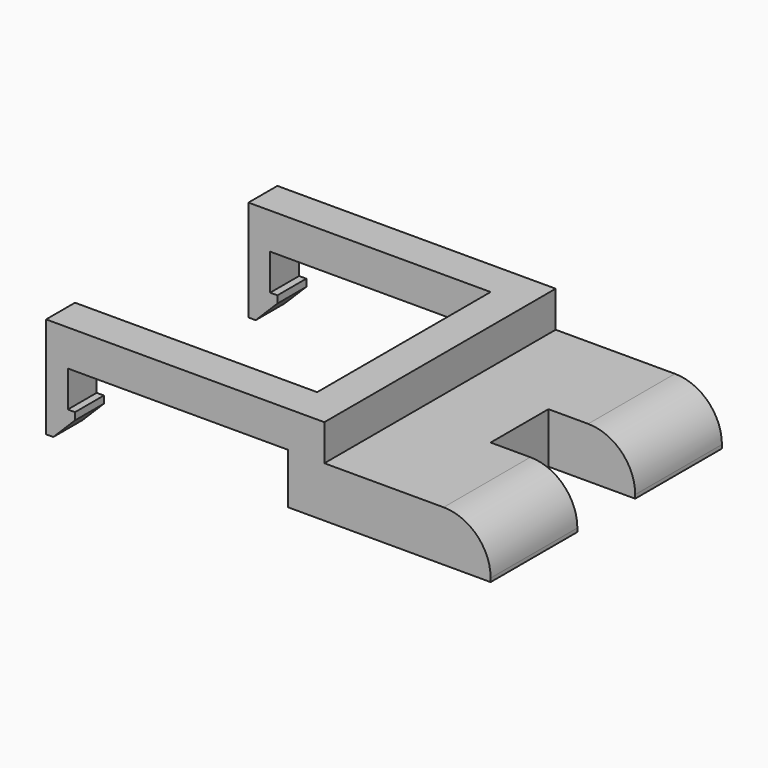
from build123d import *

# Parameters (mm, degrees)
SKETCH_W     = 28
SKETCH_H     = 40
PAD_DEPTH    = 7
SKETCH001_W  = 5
SKETCH001_H  = 40
PAD001_DEPTH = 5
SKETCH002_W  = 5
SKETCH002_H  = 5
PAD002_DEPTH = 33.5
SKETCH003_W  = 3
SKETCH003_H  = 5
PAD003_DEPTH = 5
SKETCH004_W  = 4
SKETCH004_H  = 5
PAD004_DEPTH = 4
SKETCH005_W  = 12
SKETCH005_H  = 10
POCKET_DEPTH = 9.001
FILLET_R     = 6.5
CHAMFER_SIZE = 3


with BuildPart() as part:
    # Sketch → Pad (new body)
    with BuildSketch(Plane.XY):
        with Locations((14, 20)):
            Rectangle(SKETCH_W, SKETCH_H)
    extrude(amount=PAD_DEPTH)

    # Sketch001 (on Face6 of Pad) → Pad001 (join)
    with BuildSketch(Plane.XY.offset(7)):
        with Locations((2.5, 20)):
            Rectangle(SKETCH001_W, SKETCH001_H)
    extrude(amount=PAD001_DEPTH)

    # Sketch002 (on Face7 of Pad001) → Pad002 (join)
    with BuildSketch(Plane(origin=(0, 0, 0), x_dir=(0, -1, 0), z_dir=(-1, 0, 0))):
        with Locations((-37.5, 9.5)):
            Rectangle(SKETCH002_W, SKETCH002_H)
        with Locations((-2.5, 9.5)):
            Rectangle(SKETCH002_W, SKETCH002_H)
    extrude(amount=PAD002_DEPTH)

    # Sketch003 (on Face9 of Pad002) → Pad003 (join)
    with BuildSketch(Plane(origin=(0, 0, 7), x_dir=(1, 0, 0), z_dir=(0, 0, -1))):
        with Locations((-32, -2.5)):
            Rectangle(SKETCH003_W, SKETCH003_H)
        with Locations((-32, -37.5)):
            Rectangle(SKETCH003_W, SKETCH003_H)
    extrude(amount=PAD003_DEPTH)

    # Sketch004 (on Face10 of Pad003) → Pad004 (join)
    with BuildSketch(Plane(origin=(0, 0, 2), x_dir=(1, 0, 0), z_dir=(0, 0, -1))):
        with Locations((-31.5, -2.5)):
            Rectangle(SKETCH004_W, SKETCH004_H)
        with Locations((-31.5, -37.5)):
            Rectangle(SKETCH004_W, SKETCH004_H)
    extrude(amount=PAD004_DEPTH)

    # Sketch005 (on Face3 of Pad004) → Pocket (cut, through all)
    with BuildSketch(Plane.XY.offset(7)):
        with Locations((22, 20)):
            Rectangle(SKETCH005_W, SKETCH005_H)
    extrude(amount=-POCKET_DEPTH, mode=Mode.SUBTRACT)

    # Fillet
    fillet_edges = [part.edges().sort_by_distance(p)[0] for p in [
        (28, 7.5, 7),
        (28, 32.5, 7),
    ]]
    fillet(fillet_edges, radius=FILLET_R)

    # Chamfer
    chamfer_edges = [part.edges().sort_by_distance(p)[0] for p in [
        (-29.5, 37.5, -2),
        (-29.5, 2.5, -2),
    ]]
    chamfer(chamfer_edges, length=CHAMFER_SIZE)


solid = part.part
